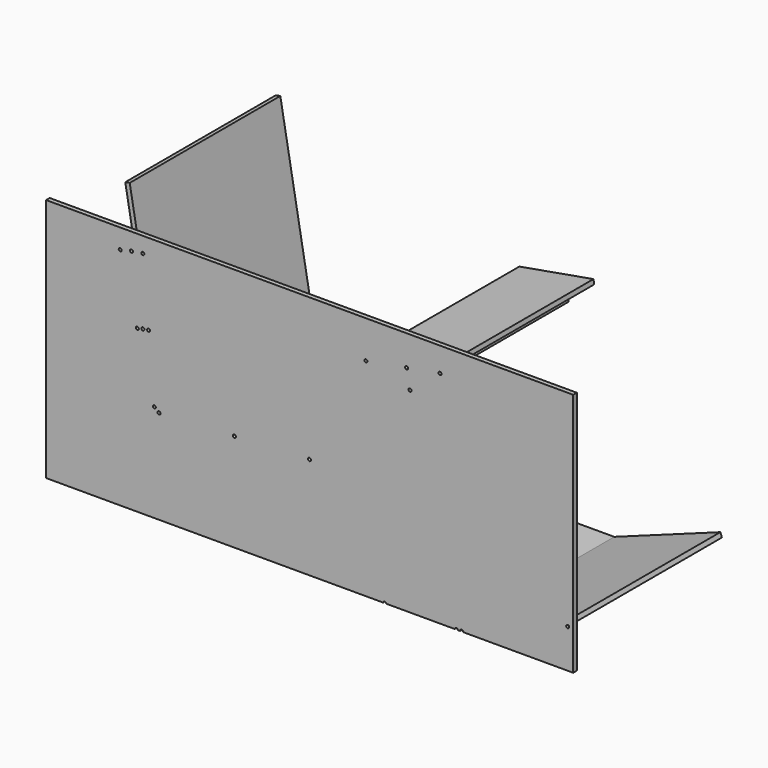
from build123d import *

# Parameters (mm, degrees)
F0_W     = 200
F0_H     = 12
F1_DEPTH = 500
F2_R     = 4
F3_DEPTH = 12


with BuildPart() as f1:
    # F0 (on Front) → F1 (new body)
    with BuildSketch(Plane.XZ):
        Polygon((-11.817693, -2.083778), (0, 0), (-86.824089, 492.403877), (-98.641782, 490.320098), align=None)
        Polygon((399.451814, 20.934382), (0, 0), (0.628031, -11.983554), (75.525247, -8.058358), (87.508801, -7.430326), (313.199076, 4.3976), (325.18263, 5.025631), (400.079845, 8.950828), align=None)
        Polygon((746.961551, 322.911942), (744.877772, 334.729636), (547.916222, 300), (550, 288.182307), (658.328853, 307.283607), (670.146546, 309.367385), align=None)
        with Locations((700, -256)):
            Rectangle(F0_W, F0_H)
        Polygon((1081.907786, -147.393957), (800, -250), (804.104242, -261.276311), (1086.012028, -158.670268), align=None)
        Polygon((678.828955, 260.126997), (670.146546, 309.367385), (658.328853, 307.283607), (667.011262, 258.043219), align=None)
        Polygon((87.508801, -7.430326), (75.525247, -8.058358), (78.142044, -57.989834), (90.125599, -57.361803), align=None)
        Polygon((327.799428, -44.905845), (325.18263, 5.025631), (313.199076, 4.3976), (315.815874, -45.533877), align=None)
    extrude(amount=-F1_DEPTH)


with BuildPart() as f3:
    # F2 (on Front) → F3 (new body)
    with BuildSketch(Plane.XZ):
        with BuildLine():
            Line((808.038231, -262), (1100.628031, -262))
            Line((1100.628031, -262), (1100.628031, 388))
            Line((1100.628031, 388), (-299.371969, 388))
            Line((-299.371969, 388), (-299.371969, -262))
            Line((-299.371969, -262), (596, -262))
            ThreePointArc((596, -262), (600, -258), (604, -262))
            Line((604, -262), (786, -262))
            ThreePointArc((786, -262), (790, -258), (794, -262))
            Line((794, -262), (800.170252, -262))
            ThreePointArc((800.170252, -262), (803.740895, -257.292848), (808.104242, -261.276311))
            ThreePointArc((808.104242, -261.276311), (808.087705, -261.639658), (808.038231, -262))
        make_face()
        with Locations((0.628031, -11.983554)):
            Circle(F2_R, mode=Mode.SUBTRACT)
        with BuildLine():
            ThreePointArc((-12.852969, 1.779925), (-12.512286, 1.855453), (-12.166316, 1.901001))
            ThreePointArc((-12.166316, 1.901001), (-9.115332, 0.865331), (-7.817693, -2.083778))
            ThreePointArc((-7.817693, -2.083778), (-14.252739, -5.257191), (-12.852969, 1.779925))
        make_face(mode=Mode.SUBTRACT)
        with Locations((200.628031, -1.501999)):
            Circle(F2_R, mode=Mode.SUBTRACT)
        with Locations((400.079845, 8.950828)):
            Circle(F2_R, mode=Mode.SUBTRACT)
        with Locations((1086.012028, -158.670268)):
            Circle(F2_R, mode=Mode.SUBTRACT)
        with BuildLine():
            ThreePointArc((-53.111026, 166.953241), (-53.937613, 164.518196), (-56.07575, 163.089538))
            ThreePointArc((-56.07575, 163.089538), (-60.974729, 165.917965), (-58.146302, 170.816945))
            ThreePointArc((-58.146302, 170.816945), (-54.67598, 170.126655), (-53.111026, 166.953241))
        make_face(mode=Mode.SUBTRACT)
        with Locations((-42.206124, 170.257579)):
            Circle(F2_R, mode=Mode.SUBTRACT)
        with BuildLine():
            ThreePointArc((-23.069948, 172.250294), (-24.120839, 169.547933), (-26.721325, 168.265515))
            ThreePointArc((-26.721325, 168.265515), (-31.054727, 171.901671), (-27.418571, 176.235073))
            ThreePointArc((-27.418571, 176.235073), (-24.367587, 175.199403), (-23.069948, 172.250294))
        make_face(mode=Mode.SUBTRACT)
        with BuildLine():
            ThreePointArc((-98.404359, 335.990261), (-99.230945, 333.555215), (-101.369083, 332.126558))
            ThreePointArc((-101.369083, 332.126558), (-105.577772, 338.425307), (-98.404359, 335.990261))
        make_face(mode=Mode.SUBTRACT)
        with Locations((-72.594555, 342.598935)):
            Circle(F2_R, mode=Mode.SUBTRACT)
        with BuildLine():
            ThreePointArc((-38.322203, 346.584366), (-39.373094, 343.882005), (-41.97358, 342.599587))
            ThreePointArc((-41.97358, 342.599587), (-45.271312, 349.286727), (-38.322203, 346.584366))
        make_face(mode=Mode.SUBTRACT)
        with Locations((550, 288.182307)):
            Circle(F2_R, mode=Mode.SUBTRACT)
        with Locations((667.011262, 258.043219)):
            Circle(F2_R, mode=Mode.SUBTRACT)
        with Locations((658.328853, 307.283607)):
            Circle(F2_R, mode=Mode.SUBTRACT)
        with Locations((746.961551, 322.911942)):
            Circle(F2_R, mode=Mode.SUBTRACT)
    extrude(amount=F3_DEPTH)


solid = Compound([f1.part, f3.part])
